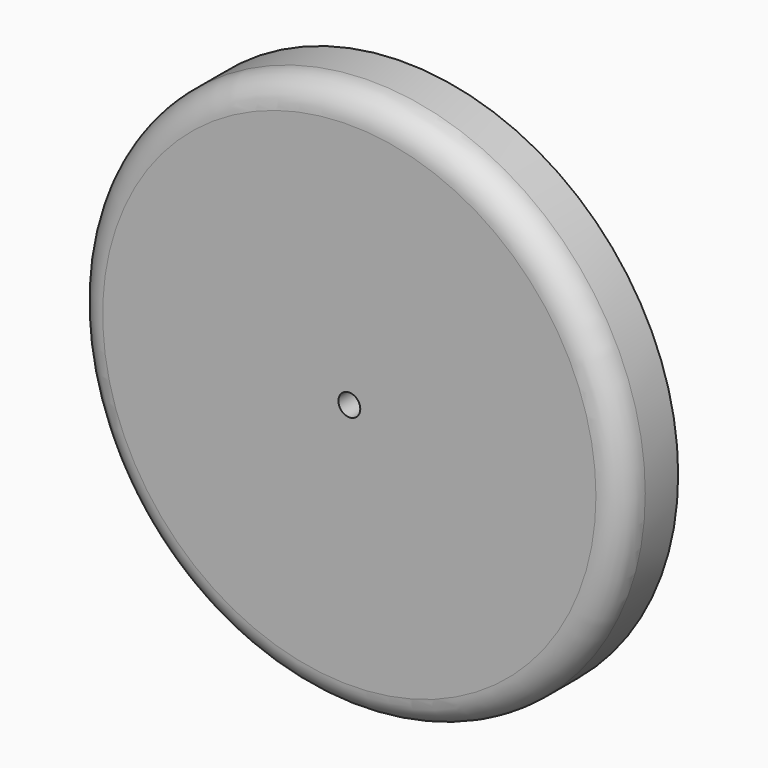
from build123d import *

# Parameters (mm, degrees)
F0_R     = 100
F1_DEPTH = 25
F2_R     = 10
F3_R     = 4
F4_DEPTH = 25


with BuildPart() as f1:
    # F0 (on Front) → F1 (new body)
    with BuildSketch(Plane.XZ):
        Circle(F0_R)
    extrude(amount=F1_DEPTH)

    # F2
    f2_edges = [f1.edges().sort_by_distance(p)[0] for p in [
        (-100, -25, 0),
    ]]
    fillet(f2_edges, radius=F2_R)

    # F3 (on face) → F4 (cut)
    with BuildSketch(Plane.XZ.offset(25)):
        Circle(F3_R)
    extrude(amount=-F4_DEPTH, mode=Mode.SUBTRACT)


solid = f1.part
